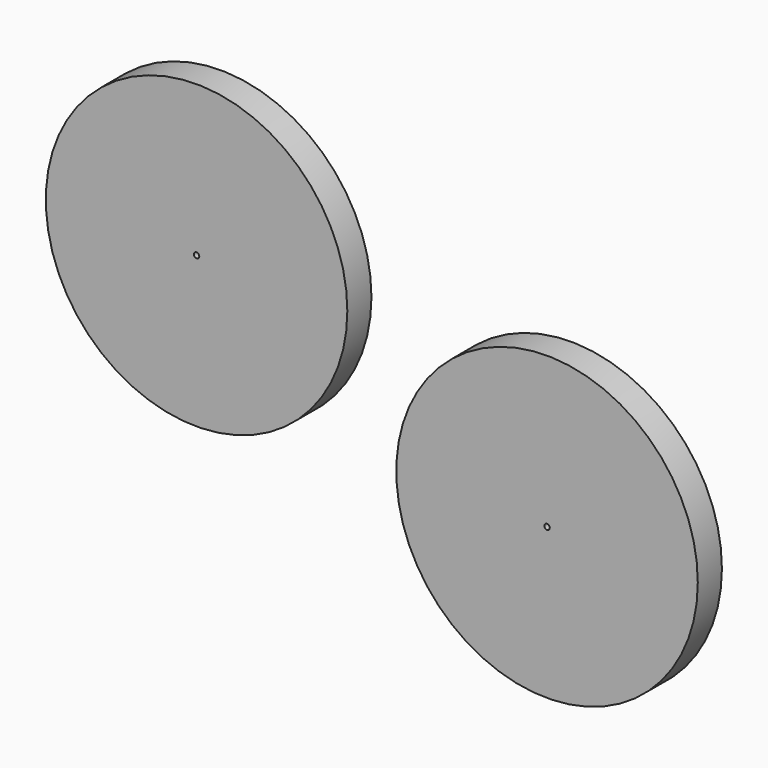
from build123d import *

# Parameters (mm, degrees)
F0_R     = 127
F0_R_2   = 2.286
F1_DEPTH = 25.4


with BuildPart() as f1:
    # F0 (on Front) → F1 (new body)
    with BuildSketch(Plane.XZ):
        with Locations((-37.432332, 51.582009)):
            Circle(F0_R)
        with Locations((-37.432332, 51.582009)):
            Circle(F0_R_2, mode=Mode.SUBTRACT)
        with Locations((257.81244, -53.779379)):
            Circle(F0_R)
        with Locations((257.81244, -53.779379)):
            Circle(F0_R_2, mode=Mode.SUBTRACT)
    extrude(amount=F1_DEPTH)


solid = f1.part
